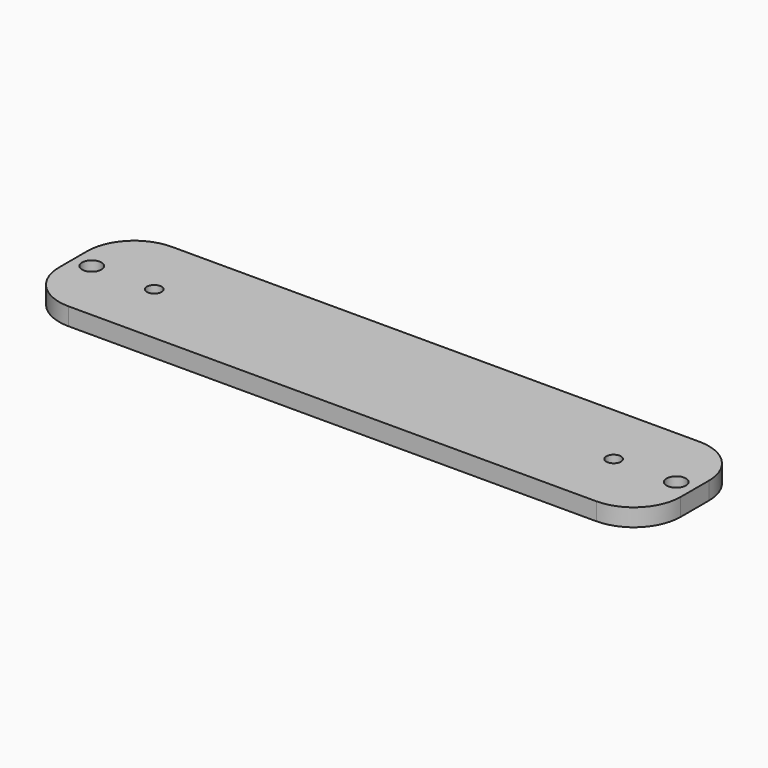
from build123d import *

# Parameters (mm, degrees)
SKETCH086_W     = 106
SKETCH086_H     = 22
PAD005_DEPTH    = 3
SKETCH087_R     = 1.25
POCKET003_DEPTH = 3
FILLET005_R     = 8
SKETCH088_R     = 1.65
POCKET004_DEPTH = 3


with BuildPart() as part:
    # Sketch086 → Pad005 (new body)
    with BuildSketch(Plane.XY):
        with Locations((0.609999, 10.86)):
            Rectangle(SKETCH086_W, SKETCH086_H)
    extrude(amount=PAD005_DEPTH)

    # Sketch087 → Pocket003 (cut)
    with BuildSketch(Plane.XY.offset(3)):
        with Locations((-38.549999, 10.83)):
            Circle(SKETCH087_R)
        with Locations((39.800001, 10.823599)):
            Circle(SKETCH087_R)
    extrude(amount=-POCKET003_DEPTH, mode=Mode.SUBTRACT)

    # Fillet005
    fillet005_edges = [part.edges().sort_by_distance(p)[0] for p in [
        (-52.390001, 21.86, 1.5),
        (-52.390001, -0.14, 1.5),
        (53.609999, 21.86, 1.5),
        (53.609999, -0.14, 1.5),
    ]]
    fillet(fillet005_edges, radius=FILLET005_R)

    # Sketch088 (on Face5 of Fillet005) → Pocket004 (cut)
    with BuildSketch(Plane.XY.offset(3)):
        with Locations((-49.240092, 10.86)):
            Circle(SKETCH088_R)
        with Locations((50.460174, 10.86)):
            Circle(SKETCH088_R)
    extrude(amount=-POCKET004_DEPTH, mode=Mode.SUBTRACT)


with BuildPart() as part_1:
    # Body008 placement: moved
    add(part.part.moved(Location((46.37, -59.87, 16))))


with BuildPart() as part_2:
    # Clone placement: moved
    add(part_1.part.moved(Location((8.020001, 36.01, -19))))


solid = part_2.part
